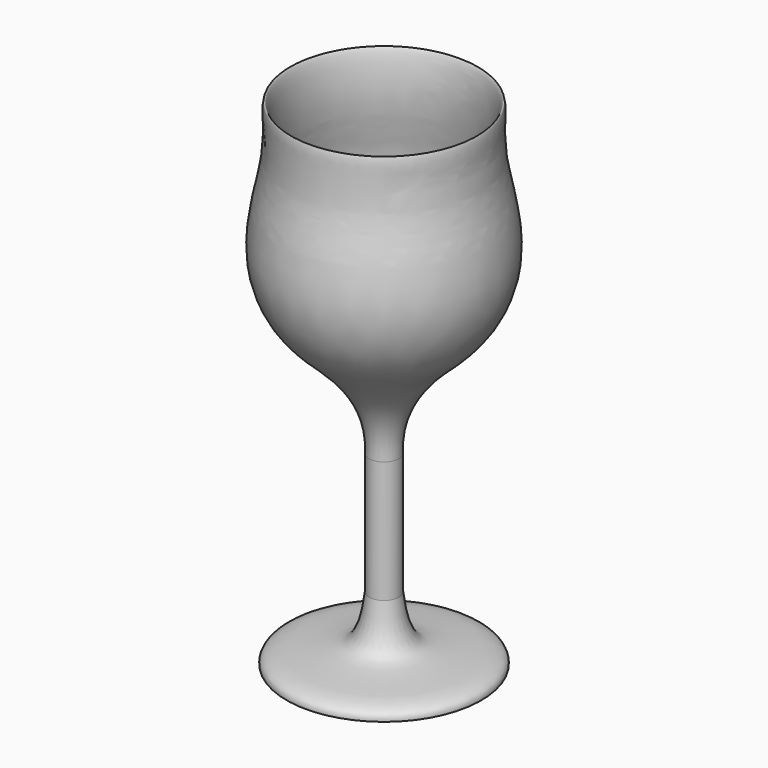
from build123d import *


with BuildPart() as part:
    # Sketch003 → Revolution (revolve)
    with BuildSketch(Plane.YZ):
        with BuildLine():
            add(Edge.make_bspline(
                [(5, 62), (4.45476, 71.6974), (12.5391, 85.578), (23.541371, 94.4552), (31.71002, 103.935), (36.632391, 117.79744), (35.46403, 133.55), (30.9033, 150.38), (32.183857, 166), (30.3178, 166), (28.4874, 150.38), (33.3721, 133.55), (34.63534, 117.961), (29.715427, 104.506958), (20.2533, 94.4552), (7.05345, 85.578), (1.13125, 71.9432), (0, 62.098171)],
                knots=[0, 0, 0, 0, 0.066667, 0.133333, 0.2, 0.266667, 0.333333, 0.4, 0.466667, 0.533333, 0.6, 0.666667, 0.733333, 0.8, 0.866667, 0.933333, 1, 1, 1, 1], degree=3))
            Line((0, 62.098171), (0, 0))
            Line((0, 0), (32.5, 0))
            add(Edge.make_bspline(
                [(5, 21.338049), (6.458222, 7.91337), (13.012399, 5.092586), (22.63625, 4.511836), (32.981609, 3.263794), (32.5, 0)],
                knots=[0, 0, 0, 0, 0.333333, 0.666667, 1, 1, 1, 1], degree=3))
            Line((5, 21.338049), (5, 62))
        make_face()
    revolve(axis=Axis((0, 0, 0), (0, 0, 1)))


solid = part.part
